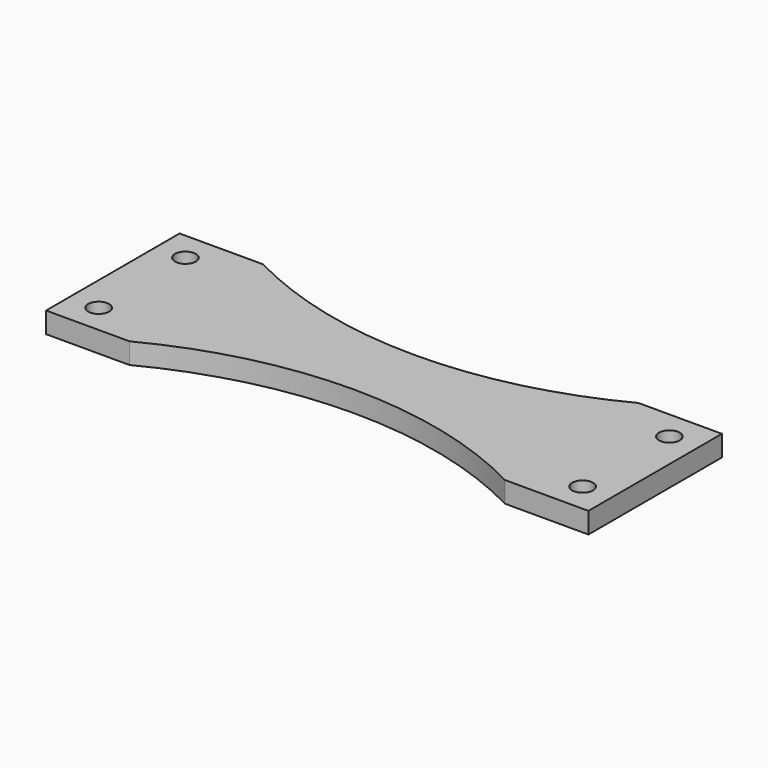
from build123d import *

# Parameters (mm, degrees)
F1_DEPTH = 5
F2_R     = 2.5
F3_DEPTH = 5.001


with BuildPart() as f1:
    # F0 (on Top) → F1 (new body)
    with BuildSketch(Plane.XY):
        with BuildLine():
            Line((-45, 20), (-65, 20))
            Line((-65, 20), (-65, -20))
            Line((-65, -20), (-45, -20))
            ThreePointArc((-45, -20), (0, -9), (45, -20))
            Line((45, -20), (65, -20))
            Line((65, -20), (65, 20))
            Line((65, 20), (45, 20))
            ThreePointArc((45, 20), (0, 9), (-45, 20))
        make_face()
    extrude(amount=F1_DEPTH)

    # F2 (on face) → F3 (cut, through all)
    with BuildSketch(Plane.XY.offset(5)):
        with Locations((-58, 13)):
            Circle(F2_R)
        with Locations((-58, -13)):
            Circle(F2_R)
        with Locations((58, 13)):
            Circle(F2_R)
        with Locations((58, -13)):
            Circle(F2_R)
    extrude(amount=-F3_DEPTH, mode=Mode.SUBTRACT)


solid = f1.part
